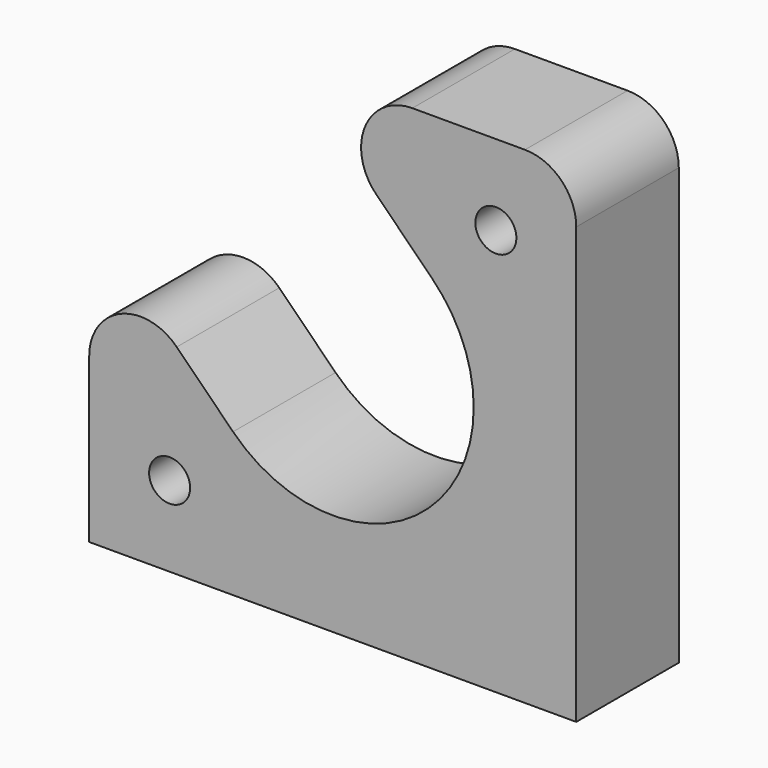
from build123d import *

# Parameters (mm, degrees)
F0_R     = 4
F1_DEPTH = 25
F2_R     = 10


with BuildPart() as f1:
    # F0 (on Front) → F1 (new body)
    with BuildSketch(Plane.XZ):
        with BuildLine():
            Line((0, 56.109127), (0, 0))
            Line((0, 0), (95, 0))
            Line((95, 0), (95, 95))
            Line((95, 95), (38.890873, 95))
            Line((38.890873, 95), (66.945436, 66.945436))
            ThreePointArc((66.945436, 66.945436), (72.906687, 58.023794), (75, 47.5))
            ThreePointArc((75, 47.5), (58.023794, 22.093313), (28.054564, 28.054564))
            Line((28.054564, 28.054564), (0, 56.109127))
        make_face()
        with Locations((15.680195, 15.680195)):
            Circle(F0_R, mode=Mode.SUBTRACT)
        with Locations((79.319805, 79.319805)):
            Circle(F0_R, mode=Mode.SUBTRACT)
    extrude(amount=F1_DEPTH)

    # F2
    f2_edges = [f1.edges().sort_by_distance(p)[0] for p in [
        (95, -12.5, 95),
        (38.890873, -12.5, 95),
        (0, -12.5, 56.109127),
    ]]
    fillet(f2_edges, radius=F2_R)


solid = f1.part
